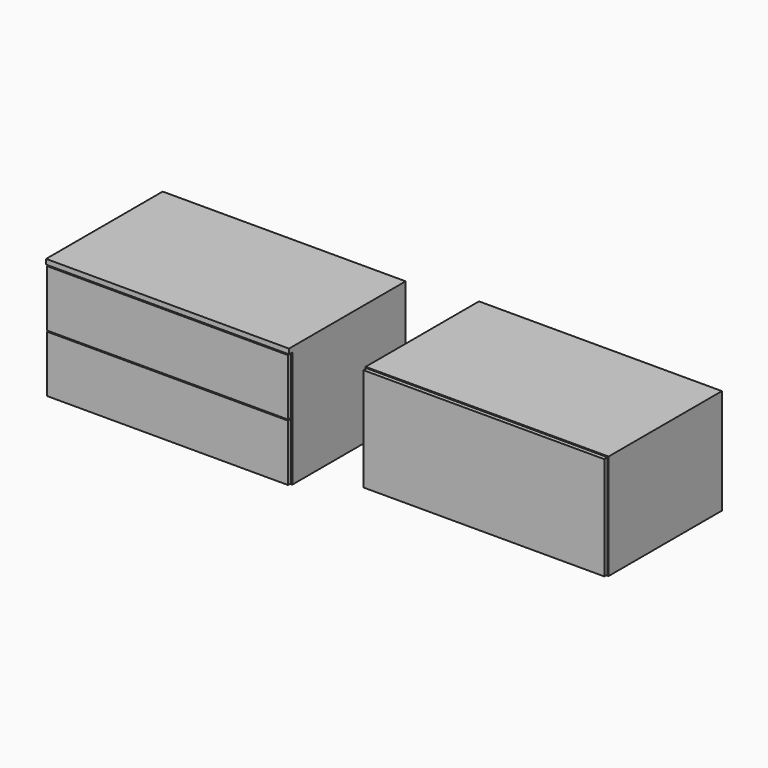
from build123d import *

# Parameters (mm, degrees)
F0_W     = 762
F0_H     = 444.5
F1_DEPTH = 381
F2_W     = 755.65
F2_H     = 177.8
F2_W_2   = 762
F2_H_2   = 15.875
F3_DEPTH = 12.7
F4_W     = 762
F4_H     = 444.5
F5_DEPTH = 330.2
F6_W     = 755.65
F6_H     = 323.85
F7_DEPTH = 12.7


with BuildPart() as f1:
    # F0 (on Top) → F1 (new body)
    with BuildSketch(Plane.XY):
        with Locations((-278.595738, -2.230618)):
            Rectangle(F0_W, F0_H)
    extrude(amount=F1_DEPTH)

    # F2 (on face) → F3 (join)
    with BuildSketch(Plane.XZ.offset(224.480618)):
        with Locations((-278.595738, 92.075)):
            Rectangle(F2_W, F2_H)
        with Locations((-278.595738, 273.05)):
            Rectangle(F2_W, F2_H)
        with Locations((-278.595738, 373.0625)):
            Rectangle(F2_W_2, F2_H_2)
    extrude(amount=F3_DEPTH)


with BuildPart() as f5:
    # F4 (on Top) → F5 (new body)
    with BuildSketch(Plane.XY):
        with Locations((629.230523, 103.11974)):
            Rectangle(F4_W, F4_H)
    extrude(amount=F5_DEPTH)

    # F6 (on face) → F7 (join)
    with BuildSketch(Plane.XZ.offset(119.13026)):
        with Locations((629.230523, 165.1)):
            Rectangle(F6_W, F6_H)
    extrude(amount=F7_DEPTH)


solid = Compound([f1.part, f5.part])
